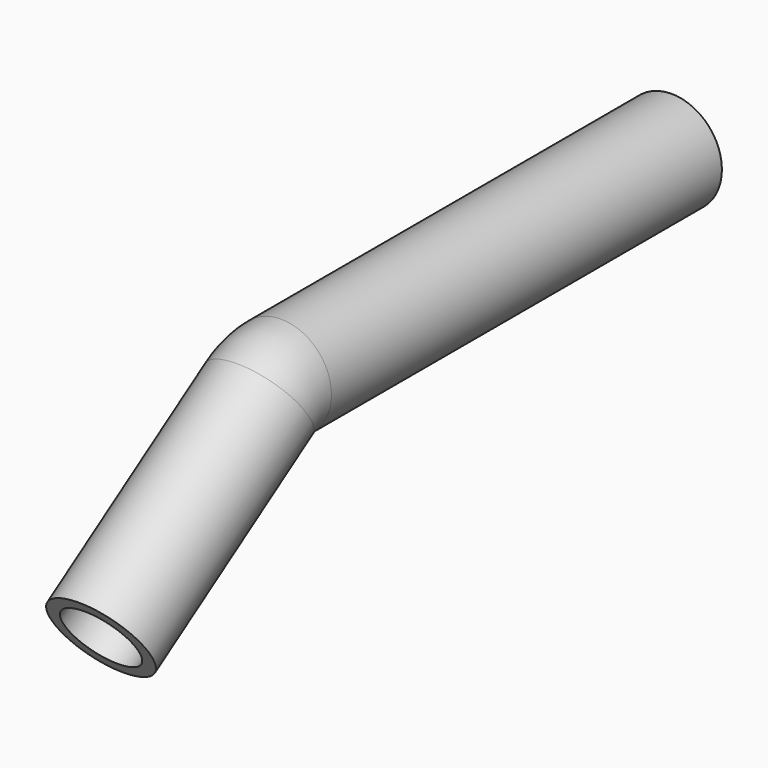
from build123d import *

# Parameters (mm, degrees)
F2_R   = 20
F2_R_2 = 15


with BuildPart() as f3:
    # F3: sweep along a path in F0
    with BuildLine(Plane.YZ) as f3_path:
        Line((200, 0), (6.000288, 0))
        ThreePointArc((6.000288, 0), (0.253077, -0.84355), (-5.009327, -3.303043))
        Line((-5.009327, -3.303043), (-83.484786, -55.048074))
    # F2 (on offset) → F3 (sweep)
    with BuildSketch(Plane.XZ.offset(-200)):
        Circle(F2_R)
        Circle(F2_R_2, mode=Mode.SUBTRACT)
    sweep(path=f3_path.line)


solid = f3.part
